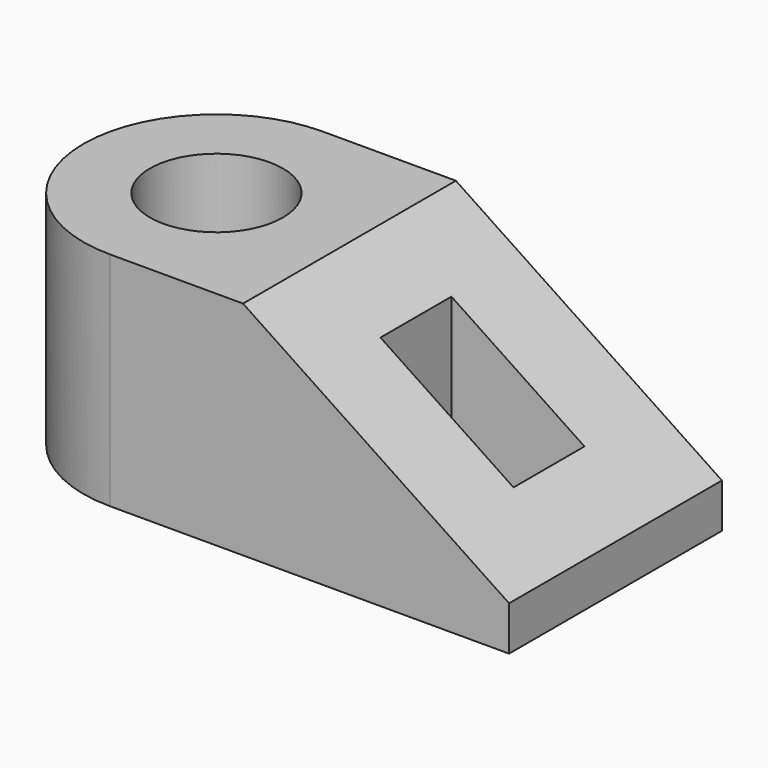
from build123d import *

# Parameters (mm, degrees)
PAD_DEPTH       = 50
SKETCH001_W     = 30
SKETCH001_H     = 20
POCKET_DEPTH    = 50.001
POCKET001_DEPTH = 60.001
SKETCH003_R     = 15
POCKET002_DEPTH = 50.001


with BuildPart() as part:
    # Sketch → Pad (new body)
    with BuildSketch(Plane.XY):
        with BuildLine():
            Line((0, 30), (90, 30))
            Line((90, 30), (90, -30))
            Line((90, -30), (0, -30))
            ThreePointArc((0, 30), (-29.999955, 0), (0, -30))
        make_face()
    extrude(amount=PAD_DEPTH)

    # Sketch001 (on Face6 of Pad) → Pocket (cut, through all)
    with BuildSketch(Plane.XY.offset(50)):
        with Locations((60, 0)):
            Rectangle(SKETCH001_W, SKETCH001_H)
    extrude(amount=-POCKET_DEPTH, mode=Mode.SUBTRACT)

    # Sketch002 (on Face6 of Pocket) → Pocket001 (cut, through all)
    with BuildSketch(Plane.XZ.offset(30)):
        Polygon((30, 50), (90, 50), (90, 10), align=None)
    extrude(amount=-POCKET001_DEPTH, mode=Mode.SUBTRACT)

    # Sketch003 (on Face5 of Pocket001) → Pocket002 (cut, through all)
    with BuildSketch(Plane.XY.offset(50)):
        Circle(SKETCH003_R)
    extrude(amount=-POCKET002_DEPTH, mode=Mode.SUBTRACT)


solid = part.part
